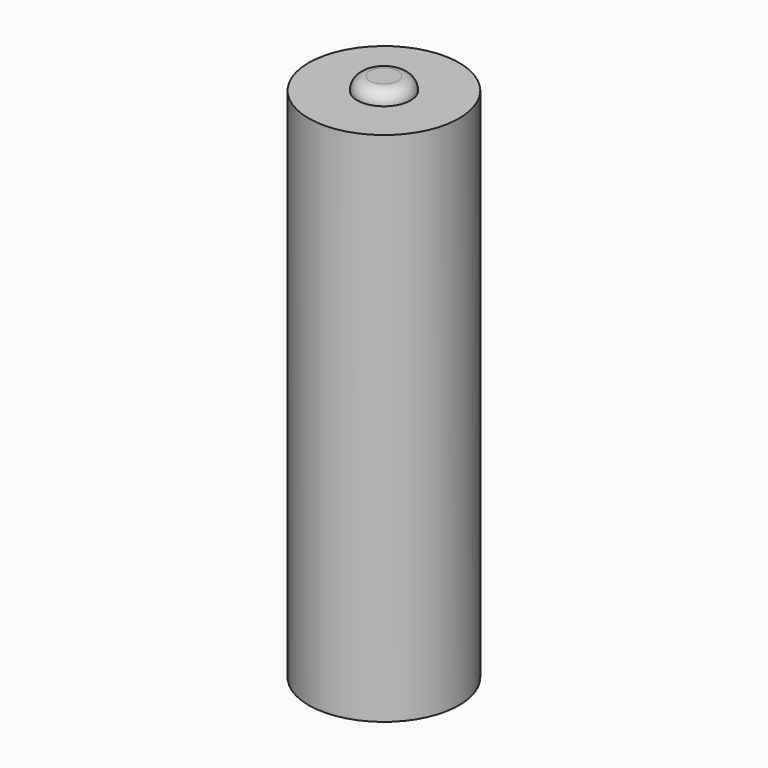
from build123d import *


with BuildPart() as f1:
    # F0 (on Front) → F1 (revolve)
    with BuildSketch(Plane.XZ):
        with BuildLine():
            Line((-15.548926, 6.61735), (-20.098926, 6.61735))
            Line((-20.098926, 6.61735), (-20.098926, -41.78265))
            Line((-20.098926, -41.78265), (-16.548926, -41.78265))
            Line((-16.548926, -41.78265), (-13.048926, -41.78265))
            Line((-13.048926, -41.78265), (-13.048926, 6.61735))
            Line((-13.048926, 6.61735), (-13.048926, 7.81735))
            Line((-13.048926, 7.81735), (-14.348926, 7.81735))
            ThreePointArc((-14.348926, 7.81735), (-15.197454, 7.465878), (-15.548926, 6.61735))
        make_face()
        with BuildLine():
            Line((-13.048926, -41.78265), (-16.548926, -41.78265))
            Line((-16.548926, -41.78265), (-16.548926, -41.92865))
            ThreePointArc((-16.548926, -41.92865), (-16.474531, -42.108255), (-16.294926, -42.18265))
            Line((-16.294926, -42.18265), (-13.048926, -42.18265))
            Line((-13.048926, -42.18265), (-13.048926, -41.78265))
        make_face()
    revolve(axis=Axis((-13.048926, 0, -17.58265), (0, 0, 1)))


solid = f1.part
